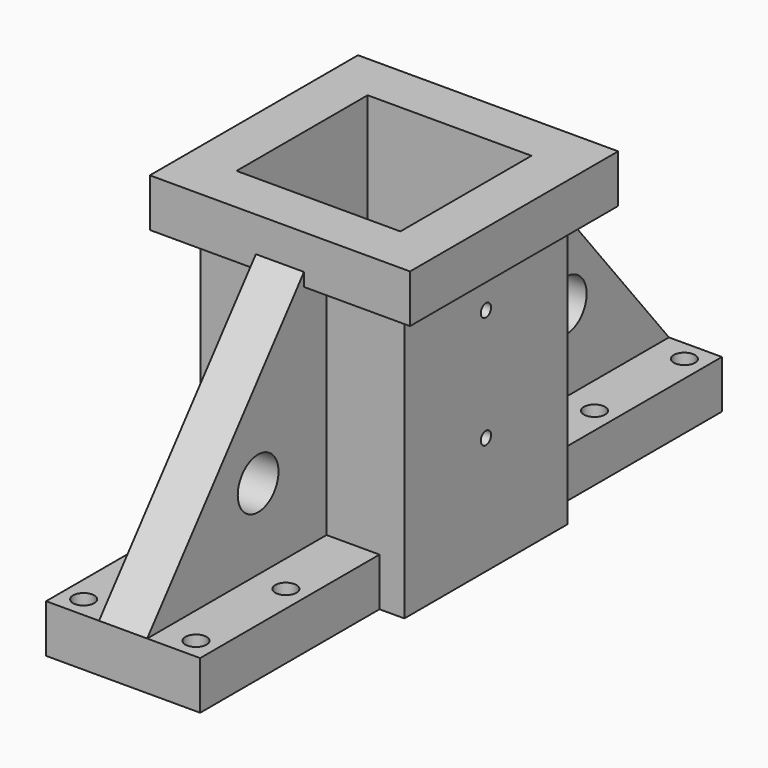
from build123d import *

# Parameters (mm, degrees)
SKETCH_W        = 48
SKETCH_H        = 15
PAD_DEPTH       = 203.2
SKETCH001_R     = 3.3
POCKET_DEPTH    = 15
SKETCH002_W     = 63.5
SKETCH002_H     = 63.5
PAD001_DEPTH    = 101.6
SKETCH003_W     = 51.05
SKETCH003_H     = 51.05
POCKET001_DEPTH = 88.9
SKETCH004_R     = 2
POCKET002_DEPTH = 15
SKETCH005_R     = 2
POCKET003_DEPTH = 15
PAD002_DEPTH    = 7.5
SKETCH007_W     = 81.05
SKETCH007_H     = 81.05
SKETCH007_W_2   = 51.05
SKETCH007_H_2   = 51.05
PAD003_DEPTH    = 15
SKETCH008_R     = 7.9375
POCKET004_DEPTH = 15


with BuildPart() as part:
    # Sketch → Pad (new body)
    with BuildSketch(Plane.XZ):
        with Locations((-24, 7.5)):
            Rectangle(SKETCH_W, SKETCH_H)
    extrude(amount=PAD_DEPTH)

    # Sketch001 (on Face4 of Pad) → Pocket (cut)
    with BuildSketch(Plane(origin=(0, 0, 0), x_dir=(1, 0, 0), z_dir=(0, 0, -1))):
        with Locations((-41.5, 41.5)):
            Circle(SKETCH001_R)
        with Locations((-6.5, 41.5)):
            Circle(SKETCH001_R)
        with Locations((-41.5, 6.5)):
            Circle(SKETCH001_R)
        with Locations((-6.5, 6.5)):
            Circle(SKETCH001_R)
        with Locations((-41.5, 196.7)):
            Circle(SKETCH001_R)
        with Locations((-6.5, 196.7)):
            Circle(SKETCH001_R)
        with Locations((-41.5, 161.7)):
            Circle(SKETCH001_R)
        with Locations((-6.5, 161.7)):
            Circle(SKETCH001_R)
    extrude(amount=-POCKET_DEPTH, mode=Mode.SUBTRACT)

    # Sketch002 (on Face2 of Pocket) → Pad001 (join)
    with BuildSketch(Plane(origin=(0, 0, 0), x_dir=(1, 0, 0), z_dir=(0, 0, -1))):
        with Locations((-24, 101.6)):
            Rectangle(SKETCH002_W, SKETCH002_H)
    extrude(amount=-PAD001_DEPTH)

    # Sketch003 (on Face11 of Pad001) → Pocket001 (cut)
    with BuildSketch(Plane(origin=(0, 0, 101.6), x_dir=(-1, 0, 0), z_dir=(0, 0, 1))):
        with Locations((24, 101.6)):
            Rectangle(SKETCH003_W, SKETCH003_H)
    extrude(amount=-POCKET001_DEPTH, mode=Mode.SUBTRACT)

    # Sketch004 (on Face11 of Pocket001) → Pocket002 (cut)
    with BuildSketch(Plane(origin=(7.75, 0, 0), x_dir=(0, 0, 1), z_dir=(1, 0, 0))):
        with Locations((71.6, 101.6)):
            Circle(SKETCH004_R)
        with Locations((36.6, 101.6)):
            Circle(SKETCH004_R)
    extrude(amount=-POCKET002_DEPTH, mode=Mode.SUBTRACT)

    # Sketch005 (on Face13 of Pocket002) → Pocket003 (cut)
    with BuildSketch(Plane(origin=(-55.75, 0, 0), x_dir=(0, 0, -1), z_dir=(-1, 0, 0))):
        with Locations((-71.6, 101.6)):
            Circle(SKETCH005_R)
        with Locations((-36.6, 101.6)):
            Circle(SKETCH005_R)
    extrude(amount=-POCKET003_DEPTH, mode=Mode.SUBTRACT)

    # Sketch006 (on Face11 of Pocket003) → Pad002 (join, symmetric)
    with BuildSketch(Plane(origin=(-24, 0, 0), x_dir=(0, 0, 1), z_dir=(1, 0, 0))):
        Polygon((15, 133.35), (15, 203.2), (101.6, 133.35), align=None)
        Polygon((101.6, 69.85), (15, 69.85), (15, 0), align=None)
    extrude(amount=PAD002_DEPTH, both=True)

    # Sketch007 (on Face13 of Pad002) → Pad003 (join)
    with BuildSketch(Plane(origin=(0, 0, 101.6), x_dir=(-1, 0, 0), z_dir=(0, 0, 1))):
        with Locations((24, 101.6)):
            Rectangle(SKETCH007_W, SKETCH007_H)
        with Locations((24, 101.6)):
            Rectangle(SKETCH007_W_2, SKETCH007_H_2, mode=Mode.SUBTRACT)
    extrude(amount=-PAD003_DEPTH)

    # Sketch008 (on Face34 of Pad003) → Pocket004 (cut)
    with BuildSketch(Plane(origin=(-16.5, 0, 0), x_dir=(0, 0, 1), z_dir=(1, 0, 0))):
        with Locations((40, 160)):
            Circle(SKETCH008_R)
        with Locations((40, 40)):
            Circle(SKETCH008_R)
    extrude(amount=-POCKET004_DEPTH, mode=Mode.SUBTRACT)


solid = part.part
